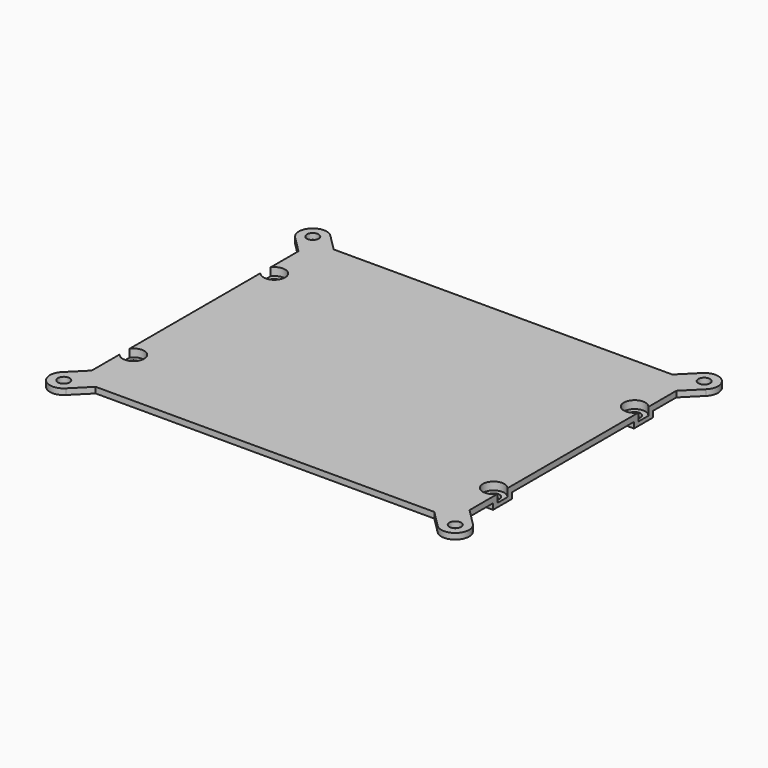
from build123d import *

# Parameters (mm, degrees)
SKETCH_R        = 1.5
PAD_DEPTH       = 1.5
SKETCH001_W     = 6
SKETCH001_H     = 6
PAD001_DEPTH    = 1.5
SKETCH002_R     = 1.5
POCKET_DEPTH    = 3.001
SKETCH003_R     = 2.75
POCKET001_DEPTH = 2


with BuildPart() as part:
    # Sketch → Pad (new body)
    with BuildSketch(Plane.XY):
        with BuildLine():
            Line((-48.25, -33), (-48.25, 33))
            Line((-48.25, 33), (-52.492641, 37.242641))
            ThreePointArc((-47.492641, 42.242641), (-52.492641, 42.242641), (-52.492641, 37.242641))
            Line((-43.25, 38), (-47.492641, 42.242641))
            Line((-43.25, 38), (43.25, 38))
            Line((43.25, 38), (47.492641, 42.242641))
            ThreePointArc((52.492641, 37.242641), (52.492641, 42.242641), (47.492641, 42.242641))
            Line((48.25, 33), (52.492641, 37.242641))
            Line((48.25, 33), (48.25, -33))
            Line((48.25, -33), (52.492641, -37.242641))
            ThreePointArc((47.492641, -42.242641), (52.492641, -42.242641), (52.492641, -37.242641))
            Line((43.25, -38), (47.492641, -42.242641))
            Line((43.25, -38), (-43.25, -38))
            Line((-43.25, -38), (-47.492641, -42.242641))
            ThreePointArc((-52.492641, -37.242641), (-52.492641, -42.242641), (-47.492641, -42.242641))
            Line((-48.25, -33), (-52.492641, -37.242641))
        make_face()
        with Locations((49.992641, -39.742641)):
            Circle(SKETCH_R, mode=Mode.SUBTRACT)
        with Locations((-49.992641, -39.742641)):
            Circle(SKETCH_R, mode=Mode.SUBTRACT)
        with Locations((-49.992641, 39.742641)):
            Circle(SKETCH_R, mode=Mode.SUBTRACT)
        with Locations((49.992641, 39.742641)):
            Circle(SKETCH_R, mode=Mode.SUBTRACT)
    extrude(amount=PAD_DEPTH)

    # Sketch001 (on Face21 of Pad) → Pad001 (join)
    with BuildSketch(Plane(origin=(0, 0, 0), x_dir=(1, 0, 0), z_dir=(0, 0, -1))):
        with Locations((-45.25, 22.5)):
            Rectangle(SKETCH001_W, SKETCH001_H)
        with Locations((-45.25, -22.5)):
            Rectangle(SKETCH001_W, SKETCH001_H)
        with Locations((45.25, 22.5)):
            Rectangle(SKETCH001_W, SKETCH001_H)
        with Locations((45.25, -22.5)):
            Rectangle(SKETCH001_W, SKETCH001_H)
    extrude(amount=PAD001_DEPTH)

    # Sketch002 (on Face5 of Pad001) → Pocket (cut, through all)
    with BuildSketch(Plane.XY.offset(1.5)):
        with Locations((-46, 22.5)):
            Circle(SKETCH002_R)
        with Locations((-46, -22.5)):
            Circle(SKETCH002_R)
        with Locations((46, 22.5)):
            Circle(SKETCH002_R)
        with Locations((46, -22.5)):
            Circle(SKETCH002_R)
    extrude(amount=-POCKET_DEPTH, mode=Mode.SUBTRACT)

    # Sketch003 (on Face5 of Pocket) → Pocket001 (cut)
    with BuildSketch(Plane.XY.offset(1.5)):
        with Locations((46, 22.5)):
            Circle(SKETCH003_R)
        with Locations((-46, 22.5)):
            Circle(SKETCH003_R)
        with Locations((-46, -22.5)):
            Circle(SKETCH003_R)
        with Locations((46, -22.5)):
            Circle(SKETCH003_R)
    extrude(amount=-POCKET001_DEPTH, mode=Mode.SUBTRACT)


solid = part.part
